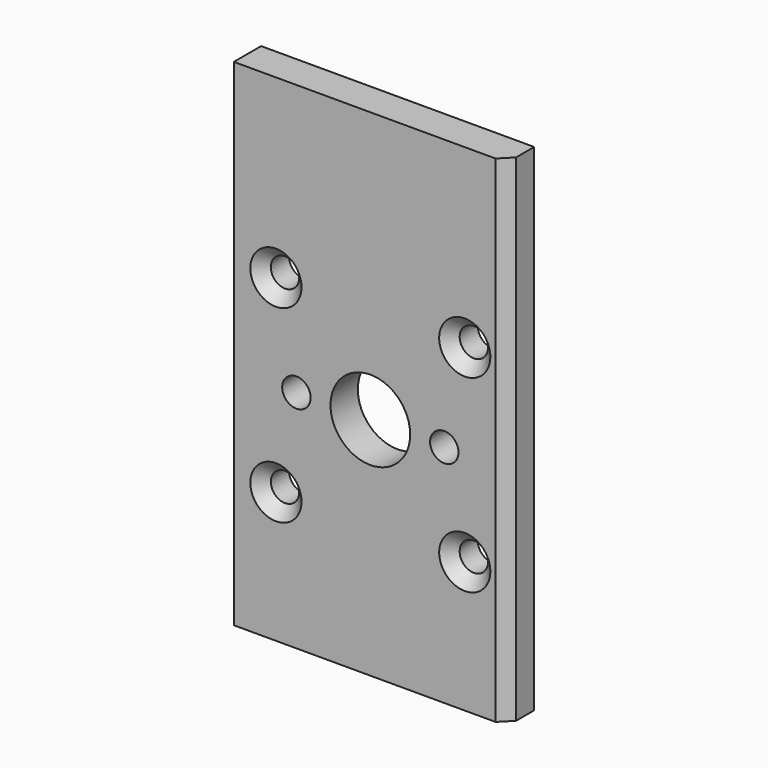
from build123d import *

# Parameters (mm, degrees)
F0_W     = 120
F0_H     = 218
F0_R     = 6.25
F0_R_2   = 17.5
F1_DEPTH = 15
F2_SIZE2 = 5
F2_SIZE  = 5


with BuildPart() as f1:
    # F0 (on Front) → F1 (new body)
    with BuildSketch(Plane.XZ):
        with Locations((0, 10)):
            Rectangle(F0_W, F0_H)
        with Locations((-41.5, -41.5)):
            Circle(F0_R, mode=Mode.SUBTRACT)
        with Locations((-32.5, 0)):
            Circle(F0_R, mode=Mode.SUBTRACT)
        Circle(F0_R_2, mode=Mode.SUBTRACT)
        with Locations((41.5, -41.5)):
            Circle(F0_R, mode=Mode.SUBTRACT)
        with Locations((32.5, 0)):
            Circle(F0_R, mode=Mode.SUBTRACT)
        with Locations((-41.5, 41.5)):
            Circle(F0_R, mode=Mode.SUBTRACT)
        with Locations((41.5, 41.5)):
            Circle(F0_R, mode=Mode.SUBTRACT)
    extrude(amount=F1_DEPTH)

    # F2
    f2_edges = [f1.edges().sort_by_distance(p)[0] for p in [
        (-47.75, -15, 41.5),
        (35.25, -15, 41.5),
        (-47.75, -15, -41.5),
        (35.25, -15, -41.5),
        (60, -15, 10),
    ]]
    chamfer(f2_edges, length=F2_SIZE, length2=F2_SIZE2)


solid = f1.part
